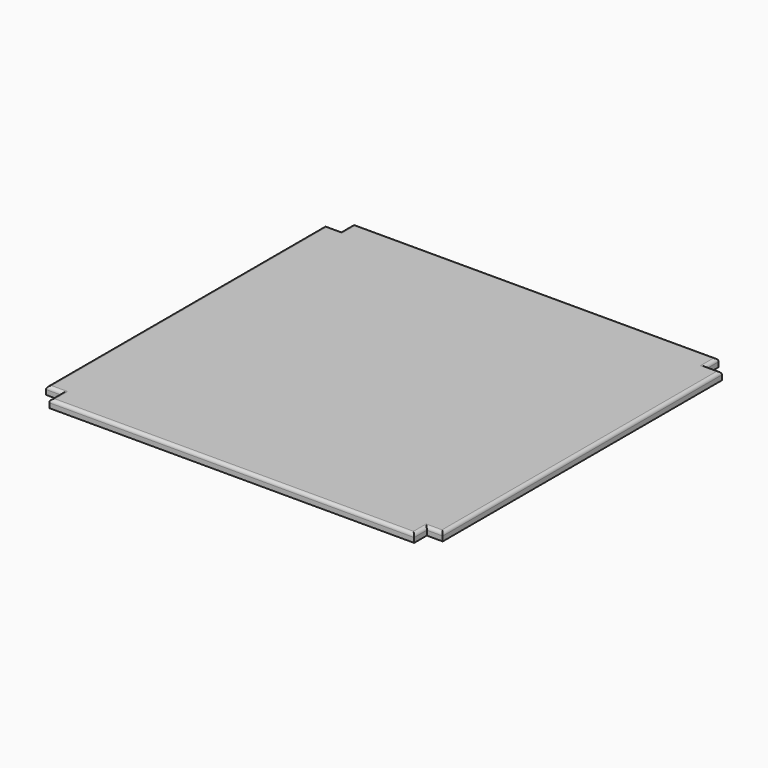
from build123d import *

# Parameters (mm, degrees)
F1_DEPTH = 12.7
F2_R     = 5.08


with BuildPart() as f1:
    # F0 (on Top) → F1 (new body)
    with BuildSketch(Plane.XY):
        Polygon((-300.1818060875, -284.4353668213), (284.0181939125, -284.4353668213), (284.0181939125, -259.0353668213), (309.4181939125, -259.0353668213), (309.4181939125, 299.7646331787), (284.0181939125, 299.7646331787), (284.0181939125, 325.1646331787), (-300.1818060875, 325.1646331787), (-300.1818060875, 299.7646331787), (-325.5818060875, 299.7646331787), (-325.5818060875, -259.0353668213), (-300.1818060875, -259.0353668213), align=None)
    extrude(amount=F1_DEPTH)

    # F2
    f2_edges = [f1.edges().sort_by_distance(p)[0] for p in [
        (-8.081806, -284.435367, 12.7),
        (284.018194, -271.735367, 12.7),
        (296.718194, -259.035367, 12.7),
        (309.418194, 20.364633, 12.7),
        (296.718194, 299.764633, 12.7),
        (284.018194, 312.464633, 12.7),
        (-8.081806, 325.164633, 12.7),
        (-300.181806, 312.464633, 12.7),
        (-312.881806, 299.764633, 12.7),
        (-325.581806, 20.364633, 12.7),
        (-312.881806, -259.035367, 12.7),
        (-300.181806, -271.735367, 12.7),
    ]]
    fillet(f2_edges, radius=F2_R)


solid = f1.part
